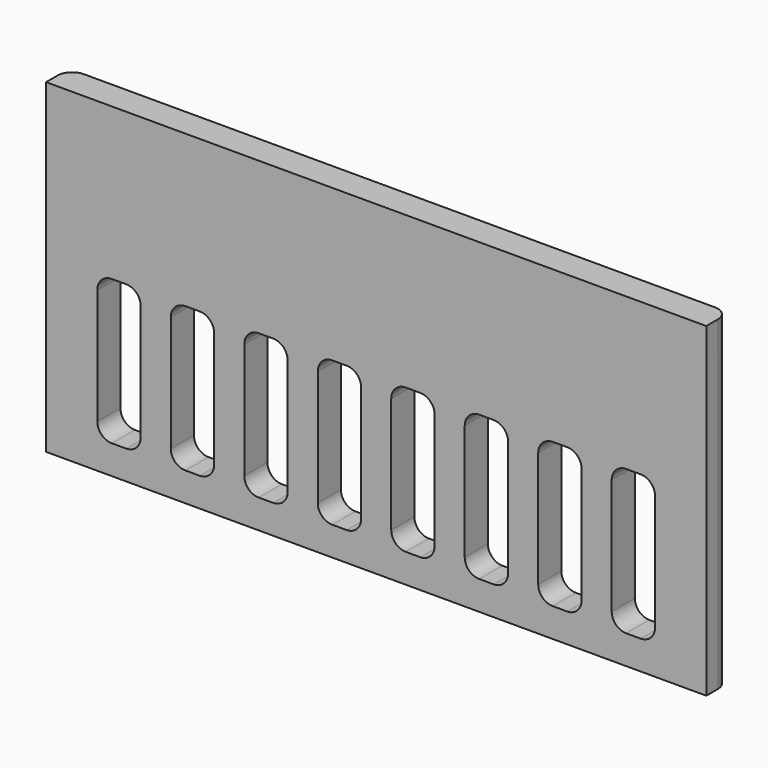
from build123d import *

# Parameters (mm, degrees)
BOX036_W     = 3
BOX036_H     = 10.16
BOX036_DEPTH = 10
FILLET002_R  = 1
BOX035_W     = 3
BOX035_H     = 10.16
BOX035_DEPTH = 10
FILLET001_R  = 1
BOX037_W     = 3
BOX037_H     = 10.16
BOX037_DEPTH = 10
FILLET003_R  = 1
BOX038_W     = 3
BOX038_H     = 10.16
BOX038_DEPTH = 10
FILLET004_R  = 1
BOX039_W     = 3
BOX039_H     = 10.16
BOX039_DEPTH = 10
FILLET005_R  = 1
BOX040_W     = 3
BOX040_H     = 10.16
BOX040_DEPTH = 10
FILLET006_R  = 1
BOX041_W     = 3
BOX041_H     = 10.16
BOX041_DEPTH = 10
FILLET007_R  = 1
BOX032_W     = 3
BOX032_H     = 10.16
BOX032_DEPTH = 10
FILLET_R     = 1
BOX021_W     = 45.64
BOX021_H     = 2
BOX021_DEPTH = 22.5
FILLET008_R  = 1


with BuildPart() as fillet002:
    # Box036 → Box036 (new body)
    with BuildSketch(Plane(origin=(49.3, 45.775, 2), x_dir=(1, 0, 0), z_dir=(0, 0, 1))):
        with Locations((1.5, 5.08)):
            Rectangle(BOX036_W, BOX036_H)
    extrude(amount=BOX036_DEPTH)

    # Fillet002
    fillet002_edges = [fillet002.edges().sort_by_distance(p)[0] for p in [
        (49.3, 50.855, 12),
        (49.3, 50.855, 2),
        (52.3, 50.855, 12),
        (52.3, 50.855, 2),
    ]]
    fillet(fillet002_edges, radius=FILLET002_R)


with BuildPart() as fillet001:
    # Box035 → Box035 (new body)
    with BuildSketch(Plane(origin=(54.38, 45.775, 2), x_dir=(1, 0, 0), z_dir=(0, 0, 1))):
        with Locations((1.5, 5.08)):
            Rectangle(BOX035_W, BOX035_H)
    extrude(amount=BOX035_DEPTH)

    # Fillet001
    fillet001_edges = [fillet001.edges().sort_by_distance(p)[0] for p in [
        (54.38, 50.855, 12),
        (54.38, 50.855, 2),
        (57.38, 50.855, 12),
        (57.38, 50.855, 2),
    ]]
    fillet(fillet001_edges, radius=FILLET001_R)


with BuildPart() as fillet003:
    # Box037 → Box037 (new body)
    with BuildSketch(Plane(origin=(44.22, 45.775, 2), x_dir=(1, 0, 0), z_dir=(0, 0, 1))):
        with Locations((1.5, 5.08)):
            Rectangle(BOX037_W, BOX037_H)
    extrude(amount=BOX037_DEPTH)

    # Fillet003
    fillet003_edges = [fillet003.edges().sort_by_distance(p)[0] for p in [
        (44.22, 50.855, 12),
        (44.22, 50.855, 2),
        (47.22, 50.855, 12),
        (47.22, 50.855, 2),
    ]]
    fillet(fillet003_edges, radius=FILLET003_R)


with BuildPart() as fillet004:
    # Box038 → Box038 (new body)
    with BuildSketch(Plane(origin=(39.14, 45.775, 2), x_dir=(1, 0, 0), z_dir=(0, 0, 1))):
        with Locations((1.5, 5.08)):
            Rectangle(BOX038_W, BOX038_H)
    extrude(amount=BOX038_DEPTH)

    # Fillet004
    fillet004_edges = [fillet004.edges().sort_by_distance(p)[0] for p in [
        (39.14, 50.855, 12),
        (39.14, 50.855, 2),
        (42.14, 50.855, 12),
        (42.14, 50.855, 2),
    ]]
    fillet(fillet004_edges, radius=FILLET004_R)


with BuildPart() as fillet005:
    # Box039 → Box039 (new body)
    with BuildSketch(Plane(origin=(34.06, 45.775, 2), x_dir=(1, 0, 0), z_dir=(0, 0, 1))):
        with Locations((1.5, 5.08)):
            Rectangle(BOX039_W, BOX039_H)
    extrude(amount=BOX039_DEPTH)

    # Fillet005
    fillet005_edges = [fillet005.edges().sort_by_distance(p)[0] for p in [
        (34.06, 50.855, 12),
        (34.06, 50.855, 2),
        (37.06, 50.855, 12),
        (37.06, 50.855, 2),
    ]]
    fillet(fillet005_edges, radius=FILLET005_R)


with BuildPart() as fillet006:
    # Box040 → Box040 (new body)
    with BuildSketch(Plane(origin=(28.98, 45.775, 2), x_dir=(1, 0, 0), z_dir=(0, 0, 1))):
        with Locations((1.5, 5.08)):
            Rectangle(BOX040_W, BOX040_H)
    extrude(amount=BOX040_DEPTH)

    # Fillet006
    fillet006_edges = [fillet006.edges().sort_by_distance(p)[0] for p in [
        (28.98, 50.855, 12),
        (28.98, 50.855, 2),
        (31.98, 50.855, 12),
        (31.98, 50.855, 2),
    ]]
    fillet(fillet006_edges, radius=FILLET006_R)


with BuildPart() as fillet007:
    # Box041 → Box041 (new body)
    with BuildSketch(Plane(origin=(23.9, 45.775, 2), x_dir=(1, 0, 0), z_dir=(0, 0, 1))):
        with Locations((1.5, 5.08)):
            Rectangle(BOX041_W, BOX041_H)
    extrude(amount=BOX041_DEPTH)

    # Fillet007
    fillet007_edges = [fillet007.edges().sort_by_distance(p)[0] for p in [
        (23.9, 50.855, 12),
        (23.9, 50.855, 2),
        (26.9, 50.855, 12),
        (26.9, 50.855, 2),
    ]]
    fillet(fillet007_edges, radius=FILLET007_R)


with BuildPart() as fusion:
    # Box032 → Box032 (new body)
    with BuildSketch(Plane(origin=(59.46, 45.775, 2), x_dir=(1, 0, 0), z_dir=(0, 0, 1))):
        with Locations((1.5, 5.08)):
            Rectangle(BOX032_W, BOX032_H)
    extrude(amount=BOX032_DEPTH)

    # Fillet
    fillet_edges = [fusion.edges().sort_by_distance(p)[0] for p in [
        (59.46, 50.855, 12),
        (59.46, 50.855, 2),
        (62.46, 50.855, 12),
        (62.46, 50.855, 2),
    ]]
    fillet(fillet_edges, radius=FILLET_R)

    # Fusion: union Fillet002, Fillet001, Fillet003, Fillet004, Fillet005, Fillet006, Fillet007
    add(fillet002.part)
    add(fillet001.part)
    add(fillet003.part)
    add(fillet004.part)
    add(fillet005.part)
    add(fillet006.part)
    add(fillet007.part)


with BuildPart() as cut:
    # Box021 → Box021 (new body)
    with BuildSketch(Plane(origin=(20.36, 51.935, 0), x_dir=(1, 0, 0), z_dir=(0, 0, 1))):
        with Locations((22.82, 1)):
            Rectangle(BOX021_W, BOX021_H)
    extrude(amount=BOX021_DEPTH)

    # Fillet008
    fillet008_edges = [cut.edges().sort_by_distance(p)[0] for p in [
        (20.36, 53.935, 11.25),
        (66, 53.935, 11.25),
    ]]
    fillet(fillet008_edges, radius=FILLET008_R)

    # Cut: cut Fusion
    add(fusion.part, mode=Mode.SUBTRACT)


solid = cut.part
